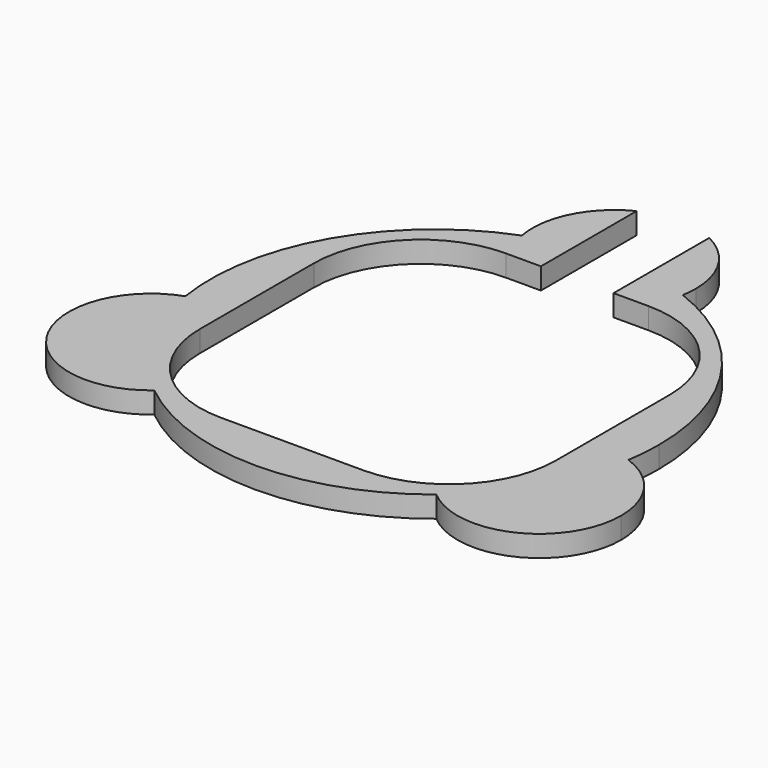
from build123d import *

# Parameters (mm, degrees)
F2_DEPTH = 3
F1_W     = 10.2
F1_H     = 8.1991158426
F1_H_2   = 21.2707020342
F3_DEPTH = 3


with BuildPart() as f2:
    # F0 (on Top) → F2 (new body)
    with BuildSketch(Plane.XY):
        with BuildLine():
            ThreePointArc((11.3067825639, 29.4007936636), (11.4515937375, 30.4459601281), (11.4999999642, 31.5))
            ThreePointArc((11.4999999642, 31.5), (-1.0540399207, 42.9515937721), (-11.3067826307, 29.4007936379))
            ThreePointArc((-11.3067826307, 29.4007936379), (-3.58e-08, 31.5), (11.3067825639, 29.4007936636))
        make_face()
        with BuildLine():
            ThreePointArc((11.3067825639, 29.4007936636), (-3.58e-08, 31.5), (-11.3067826307, 29.4007936379))
            ThreePointArc((-11.3067826307, 29.4007936379), (-2.27e-08, 20), (11.3067825639, 29.4007936636))
        make_face()
        with BuildLine():
            ThreePointArc((11.3067825639, 29.4007936636), (-2.27e-08, 20), (-11.3067826307, 29.4007936379))
            ThreePointArc((-11.3067826307, 29.4007936379), (-27.2798002371, 15.749999969), (-31.1152254861, -4.9084358964))
            ThreePointArc((-31.1152254861, -4.9084358964), (-20.641178009, -6.3596488455), (-15.7798002013, -15.750000031))
            ThreePointArc((-15.7798002013, -15.750000031), (-16.8354091384, -20.5629716001), (-19.8084428665, -24.4923578123))
            ThreePointArc((-19.8084428665, -24.4923578123), (3.58e-08, -31.5), (19.8084429222, -24.4923577673))
            ThreePointArc((19.8084429222, -24.4923577673), (17.320508087, -9.9999999803), (31.1152254973, -4.9084358257))
            ThreePointArc((31.1152254973, -4.9084358257), (31.4036590477, -2.4617470256), (31.5, 0))
            ThreePointArc((31.5, 0), (25.965492974, 17.8337650152), (11.3067825639, 29.4007936636))
        make_face()
        with BuildLine():
            ThreePointArc((-19.8084428665, -24.4923578123), (-27.2798002013, -15.750000031), (-31.1152254861, -4.9084358964))
            ThreePointArc((-31.1152254861, -4.9084358964), (-37.2390923383, -21.5000000423), (-19.8084428665, -24.4923578123))
        make_face()
        with BuildLine():
            ThreePointArc((-15.7798002013, -15.750000031), (-20.641178009, -6.3596488455), (-31.1152254861, -4.9084358964))
            ThreePointArc((-31.1152254861, -4.9084358964), (-27.2798002013, -15.750000031), (-19.8084428665, -24.4923578123))
            ThreePointArc((-19.8084428665, -24.4923578123), (-16.8354091384, -20.5629716001), (-15.7798002013, -15.750000031))
        make_face()
        with BuildLine():
            ThreePointArc((19.8084429222, -24.4923577673), (27.2798002371, -15.749999969), (31.1152254973, -4.9084358257))
            ThreePointArc((31.1152254973, -4.9084358257), (17.320508087, -9.9999999803), (19.8084429222, -24.4923577673))
        make_face()
        with BuildLine():
            ThreePointArc((38.7798002371, -15.749999969), (36.6701514151, -9.111377766), (31.1152254973, -4.9084358257))
            ThreePointArc((31.1152254973, -4.9084358257), (27.2798002371, -15.749999969), (19.8084429222, -24.4923577673))
            ThreePointArc((19.8084429222, -24.4923577673), (32.0927718181, -26.1943910265), (38.7798002371, -15.749999969))
        make_face()
    extrude(amount=F2_DEPTH)

    # F1 (on Top) → F3 (cut)
    with BuildSketch(Plane.XY):
        with BuildLine():
            Line((5.1, 25), (5.1, 16.8008841574))
            Line((5.1, 16.8008841574), (-5.1, 16.8008841574))
            Line((-5.1, 16.8008841574), (-5.1, 25))
            Line((-5.1, 25), (-10, 25))
            ThreePointArc((-10, 25), (-20.6066017178, 20.6066017178), (-25, 10))
            Line((-25, 10), (-25, -10))
            ThreePointArc((-25, -10), (-20.6066017178, -20.6066017178), (-10, -25))
            Line((-10, -25), (10, -25))
            ThreePointArc((10, -25), (20.6066017178, -20.6066017178), (25, -10))
            Line((25, -10), (25, 10))
            ThreePointArc((25, 10), (20.6066017178, 20.6066017178), (10, 25))
            Line((10, 25), (5.1, 25))
        make_face()
        with Locations((0, 20.9004420787)):
            Rectangle(F1_W, F1_H)
        with Locations((0, 35.6353510171)):
            Rectangle(F1_W, F1_H_2)
    extrude(amount=F3_DEPTH, mode=Mode.SUBTRACT)


solid = f2.part
